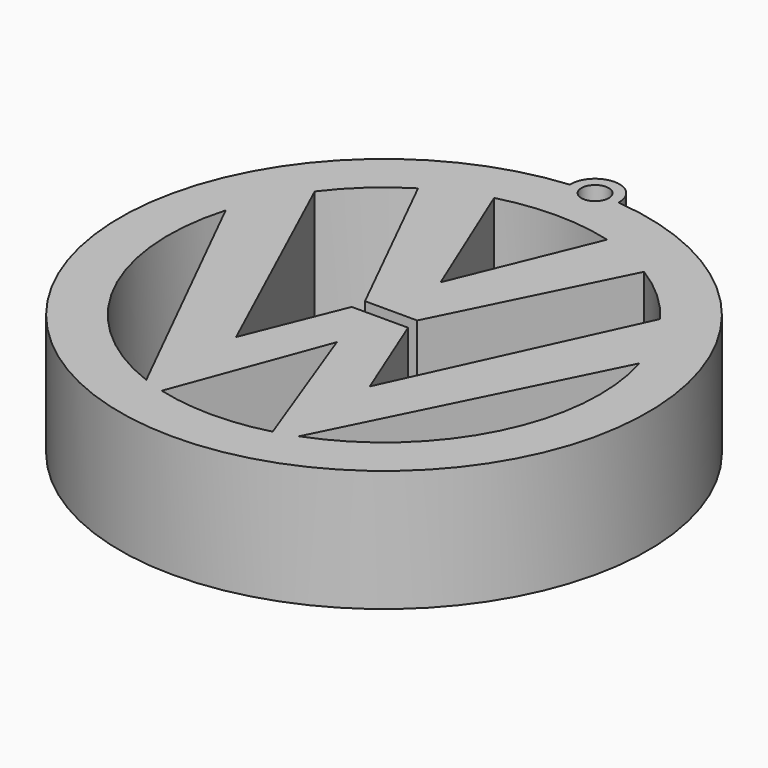
from build123d import *

# Parameters (mm, degrees)
F0_R     = 2.8575
F1_DEPTH = 25.4


with BuildPart() as f1:
    # F0 (on Top) → F1 (new body)
    with BuildSketch(Plane.XY):
        with BuildLine():
            ThreePointArc((5.074602, 54.878098), (0, 60.192224), (-5.074602, 54.878098))
            ThreePointArc((-5.074602, 54.878098), (0, -55.112224), (5.074602, 54.878098))
        make_face()
        with BuildLine():
            ThreePointArc((43.232637, 12.702506), (44.60091, 6.416646), (45.060121, 0))
            ThreePointArc((45.060121, 0), (37.071988, -25.614102), (15.939817, -42.146611))
            ThreePointArc((15.939817, -42.146611), (13.779025, -42.901667), (11.582679, -43.546023))
            ThreePointArc((11.582679, -43.546023), (0, -45.060121), (-11.582679, -43.546023))
            ThreePointArc((-11.582679, -43.546023), (-13.779025, -42.901667), (-15.939817, -42.146611))
            ThreePointArc((-15.939817, -42.146611), (-40.341681, -20.073946), (-43.232637, 12.702506))
            ThreePointArc((-43.232637, 12.702506), (-40.292177, 20.173126), (-36.072623, 27.00334))
            ThreePointArc((-36.072623, 27.00334), (-30.371021, 33.286869), (-23.592574, 38.390168))
            ThreePointArc((-23.592574, 38.390168), (-17.875835, 41.362653), (-11.793582, 43.489378))
            ThreePointArc((-11.793582, 43.489378), (0, 45.060121), (11.793582, 43.489378))
            ThreePointArc((11.793582, 43.489378), (17.875835, 41.362653), (23.592574, 38.390168))
            ThreePointArc((23.592574, 38.390168), (30.371021, 33.286869), (36.072623, 27.00334))
            ThreePointArc((36.072623, 27.00334), (40.292177, 20.173126), (43.232637, 12.702506))
        make_face(mode=Mode.SUBTRACT)
        with Locations((0, 55.112224)):
            Circle(F0_R, mode=Mode.SUBTRACT)
        with BuildLine():
            Line((5.456394, 1.858352), (23.592574, 38.390168))
            ThreePointArc((23.592574, 38.390168), (17.875835, 41.362653), (11.793582, 43.489378))
            Line((11.793582, 43.489378), (0, 14.776533))
            Line((0, 14.776533), (-11.793582, 43.489378))
            ThreePointArc((-11.793582, 43.489378), (-17.875835, 41.362653), (-23.592574, 38.390168))
            Line((-23.592574, 38.390168), (-5.456394, 1.858352))
            Line((-5.456394, 1.858352), (0, 1.858352))
            Line((0, 1.858352), (5.456394, 1.858352))
        make_face()
        with BuildLine():
            Line((15.939817, -42.146611), (43.232637, 12.702506))
            ThreePointArc((43.232637, 12.702506), (40.292177, 20.173126), (36.072623, 27.00334))
            Line((36.072623, 27.00334), (13.962634, -21.160696))
            Line((13.962634, -21.160696), (5.882978, -1.074824))
            Line((5.882978, -1.074824), (0, -1.074824))
            Line((0, -1.074824), (-5.882978, -1.074824))
            Line((-5.882978, -1.074824), (-13.962634, -21.160696))
            Line((-13.962634, -21.160696), (-36.072623, 27.00334))
            ThreePointArc((-36.072623, 27.00334), (-40.292177, 20.173126), (-43.232637, 12.702506))
            Line((-43.232637, 12.702506), (-15.939817, -42.146611))
            ThreePointArc((-15.939817, -42.146611), (-13.779025, -42.901667), (-11.582679, -43.546023))
            Line((-11.582679, -43.546023), (0, -12.311705))
            Line((0, -12.311705), (11.582679, -43.546023))
            ThreePointArc((11.582679, -43.546023), (13.779025, -42.901667), (15.939817, -42.146611))
        make_face()
    extrude(amount=F1_DEPTH)


solid = f1.part
